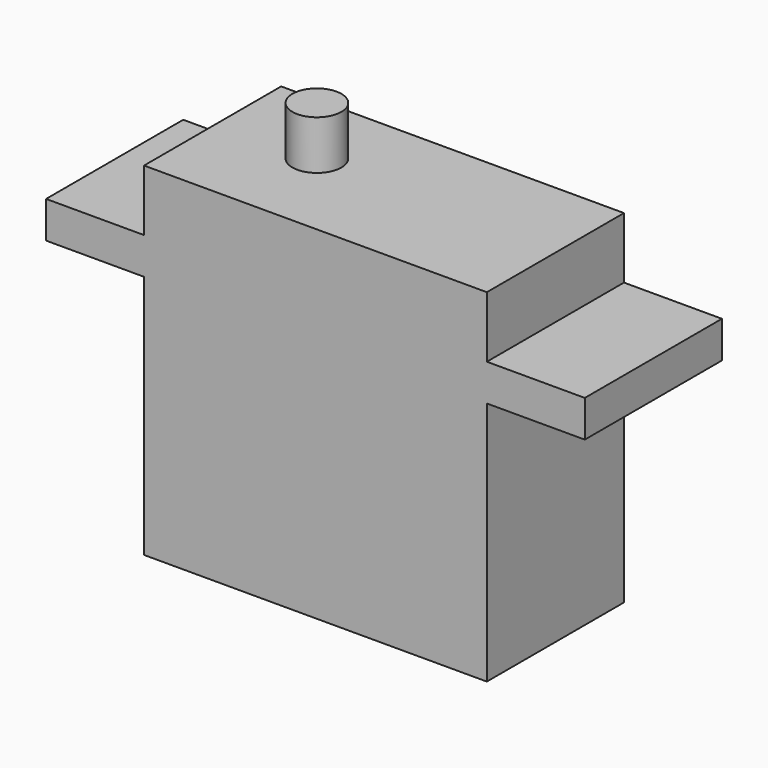
from build123d import *

# Parameters (mm, degrees)
F0_W     = 22.225
F0_H     = 22.225
F1_DEPTH = 11.1125
F2_W     = 11.1125
F2_H     = 2.38125
F3_DEPTH = 6.35
F4_W     = 11.1125
F4_H     = 2.38125
F5_DEPTH = 6.35
F6_R     = 1.5875
F7_DEPTH = 3.175


with BuildPart() as f1:
    # F0 (on Front) → F1 (new body)
    with BuildSketch(Plane.XZ):
        with Locations((11.1125, -11.1125)):
            Rectangle(F0_W, F0_H)
    extrude(amount=F1_DEPTH)

    # F2 (on face) → F3 (join)
    with BuildSketch(Plane.YZ.offset(22.225)):
        with Locations((-5.55625, -5.159375)):
            Rectangle(F2_W, F2_H)
    extrude(amount=F3_DEPTH)

    # F4 (on face) → F5 (join)
    with BuildSketch(Plane(origin=(0, 0, 0), x_dir=(0, -1, 0), z_dir=(-1, 0, 0))):
        with Locations((5.55625, -5.159375)):
            Rectangle(F4_W, F4_H)
    extrude(amount=F5_DEPTH)

    # F6 (on face) → F7 (join)
    with BuildSketch(Plane.XY):
        with Locations((6.35, -5.039688)):
            Circle(F6_R)
    extrude(amount=F7_DEPTH)


solid = f1.part
